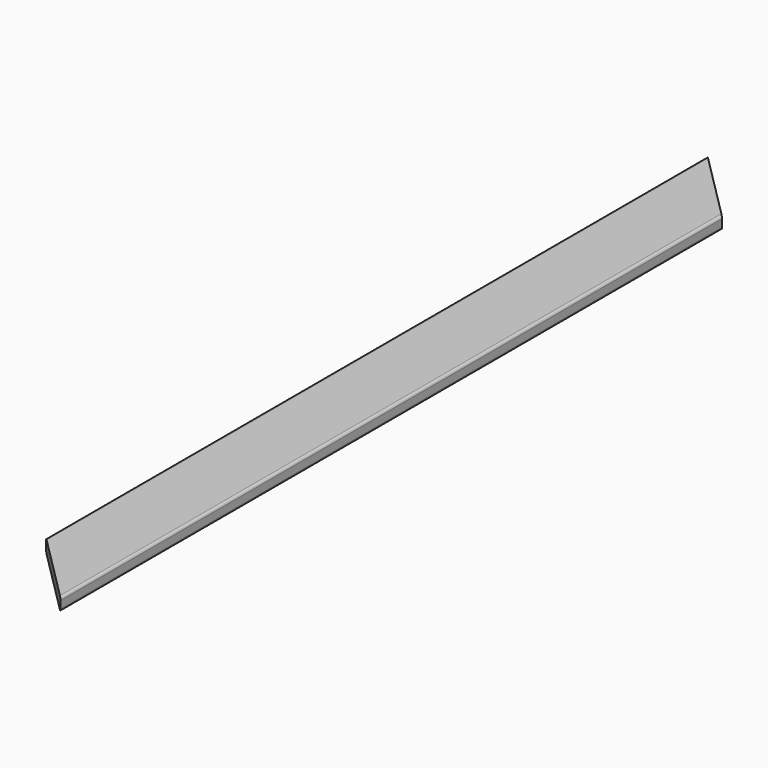
from build123d import *

# Parameters (mm, degrees)
F1_DEPTH = 849.122
F3_DEPTH = 23.877


with BuildPart() as f1:
    # F0 (on Front) → F1 (new body, symmetric)
    with BuildSketch(Plane.XZ):
        with BuildLine():
            Line((63.246, 11.938), (-63.246, 11.938))
            ThreePointArc((-63.246, 11.938), (-66.658497, 10.524497), (-68.072, 7.112))
            Line((-68.072, 7.112), (-68.072, -7.112))
            ThreePointArc((-68.072, -7.112), (-66.658497, -10.524497), (-63.246, -11.938))
            Line((-63.246, -11.938), (63.246, -11.938))
            ThreePointArc((63.246, -11.938), (66.658497, -10.524497), (68.072, -7.112))
            Line((68.072, -7.112), (68.072, 7.112))
            ThreePointArc((68.072, 7.112), (66.658497, 10.524497), (63.246, 11.938))
        make_face()
    extrude(amount=F1_DEPTH, both=True)

    # F2 (on face) → F3 (cut, through all)
    with BuildSketch(Plane.XY.offset(11.938)):
        Polygon((-68.072, -849.122), (68.072, -849.122), (-68.072, -712.978), align=None)
        Polygon((68.072, 849.122), (-68.072, 849.122), (68.072, 712.978), align=None)
    extrude(amount=-F3_DEPTH, mode=Mode.SUBTRACT)


solid = f1.part
